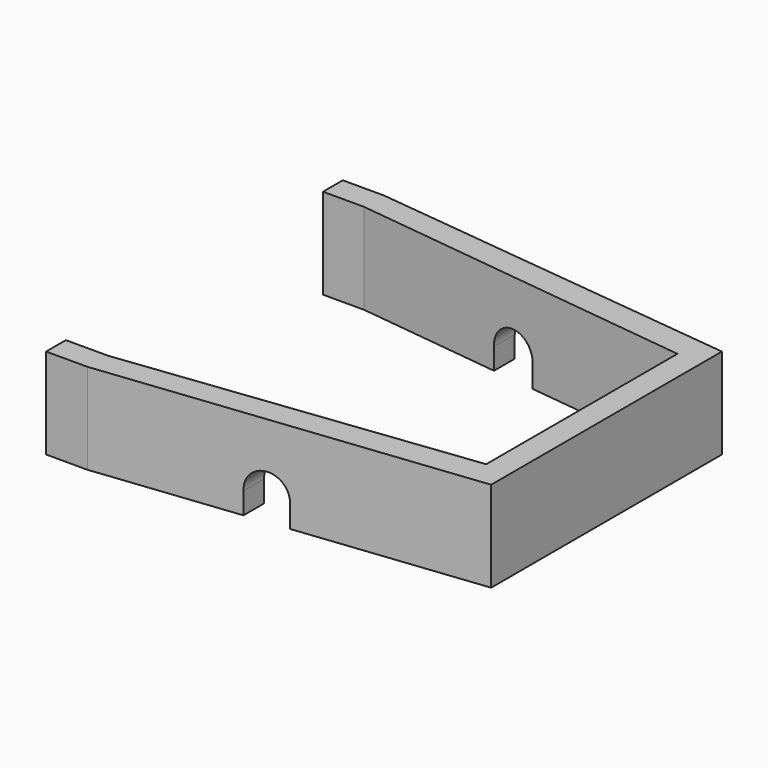
from build123d import *

# Parameters (mm, degrees)
SKETCH044_W      = 10.390858
SKETCH044_H      = 5.392216
EXTRUDE047_DEPTH = 100
SKETCH179_R      = 1.623797
EXTRUDE196_DEPTH = 10
SKETCH178_R      = 5.177463
EXTRUDE195_DEPTH = 800
EXTRUDE194_DEPTH = 22


with BuildPart() as extrude047:
    # Sketch044 → Extrude047 (new body)
    with BuildSketch(Plane.XZ):
        with Locations((70, -7.3389)):
            Rectangle(SKETCH044_W, SKETCH044_H)
    extrude(amount=EXTRUDE047_DEPTH)


with BuildPart() as extrude047_1:
    # Extrude047 placement: moved
    add(extrude047.part.moved(Location((0, 96.2, 0))))


with BuildPart() as extrude196:
    # Sketch179 → Extrude196 (new body)
    with BuildSketch(Plane.XY.offset(12.1)):
        with Locations((30, 86.963425)):
            Circle(SKETCH179_R)
        with Locations((30, 3.252438)):
            Circle(SKETCH179_R)
        with Locations((95.163345, 10)):
            Circle(SKETCH179_R)
        with Locations((94.949776, 80)):
            Circle(SKETCH179_R)
        with Locations((117.10096, 20)):
            Circle(SKETCH179_R)
        with Locations((117.030609, 70)):
            Circle(SKETCH179_R)
        with Locations((117.10096, 44.443623)):
            Circle(SKETCH179_R)
    extrude(amount=EXTRUDE196_DEPTH)


with BuildPart() as extrude196_1:
    # Extrude196 placement: moved
    add(extrude196.part.moved(Location((0, 0, -24.5))))


with BuildPart() as extrude195:
    # Sketch178 → Extrude195 (new body)
    with BuildSketch(Plane.XZ):
        with Locations((70, 3.62)):
            Circle(SKETCH178_R)
    extrude(amount=EXTRUDE195_DEPTH)


with BuildPart() as extrude195_1:
    # Extrude195 placement: moved
    add(extrude195.part.moved(Location((0, 293, 0))))


with BuildPart() as obj1:
    # Sketch177 → Extrude194 (new body)
    with BuildSketch(Plane.XY):
        Polygon((30, 0), (120, 10), (120, 80), (30, 90), (20, 90), (20, 84), (30, 84), (114, 74), (114, 16), (30.22679, 6), (20, 6), (20, 0), align=None)
    extrude(amount=EXTRUDE194_DEPTH)


with BuildPart() as obj1_1:
    # Extrude194 placement: moved
    add(obj1.part.moved(Location((0, 0, -2))))

    # Cut123: cut Extrude195
    add(extrude195_1.part, mode=Mode.SUBTRACT)


with BuildPart() as obj1_2:
    # Cut123 placement: moved
    add(obj1_1.part.moved(Location((0, 0, -7.9))))

    # Cut015: cut Extrude196
    add(extrude196_1.part, mode=Mode.SUBTRACT)

    # Cut016: cut Extrude047
    add(extrude047_1.part, mode=Mode.SUBTRACT)


with BuildPart() as obj1_3:
    # Cut016 placement: moved
    add(obj1_2.part.moved(Location((0, 0, 15.75))))


solid = obj1_3.part
